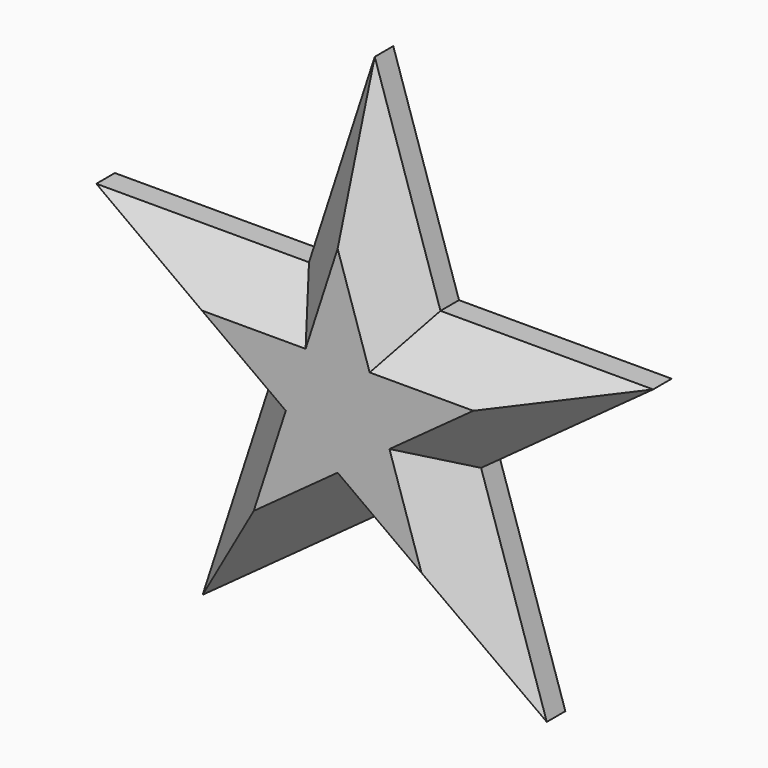
from build123d import *

# Parameters (mm, degrees)
F1_DEPTH = 25.4
F2_SIZE  = 10.16


with BuildPart() as f1:
    # F0 (on Front) → F1 (new body)
    with BuildSketch(Plane.XZ):
        Polygon((14.401741, 19.822295), (0, 64.146296), (-14.401741, 19.822295), (-61.006753, 19.822295), (-23.302506, -7.571443), (-37.704247, -51.895443), (0, -24.501705), (37.704247, -51.895443), (23.302506, -7.571443), (61.006753, 19.822295), align=None)
    extrude(amount=F1_DEPTH)

    # F2
    f2_edges = [f1.edges().sort_by_distance(p)[0] for p in [
        (42.154629, -25.4, 6.125426),
        (37.704247, -25.4, 19.822295),
        (7.20087, -25.4, 41.984296),
        (-7.20087, -25.4, 41.984296),
        (-37.704247, -25.4, 19.822295),
        (-42.154629, -25.4, 6.125426),
        (-30.503376, -25.4, -29.733443),
        (-18.852123, -25.4, -38.198574),
        (18.852123, -25.4, -38.198574),
        (30.503376, -25.4, -29.733443),
        (42.154629, 0, 6.125426),
        (37.704247, 0, 19.822295),
        (7.20087, 0, 41.984296),
        (-7.20087, 0, 41.984296),
        (-37.704247, 0, 19.822295),
        (-42.154629, 0, 6.125426),
        (-30.503376, 0, -29.733443),
        (-18.852123, 0, -38.198574),
        (18.852123, 0, -38.198574),
        (30.503376, 0, -29.733443),
    ]]
    chamfer(f2_edges, length=F2_SIZE)


solid = f1.part
